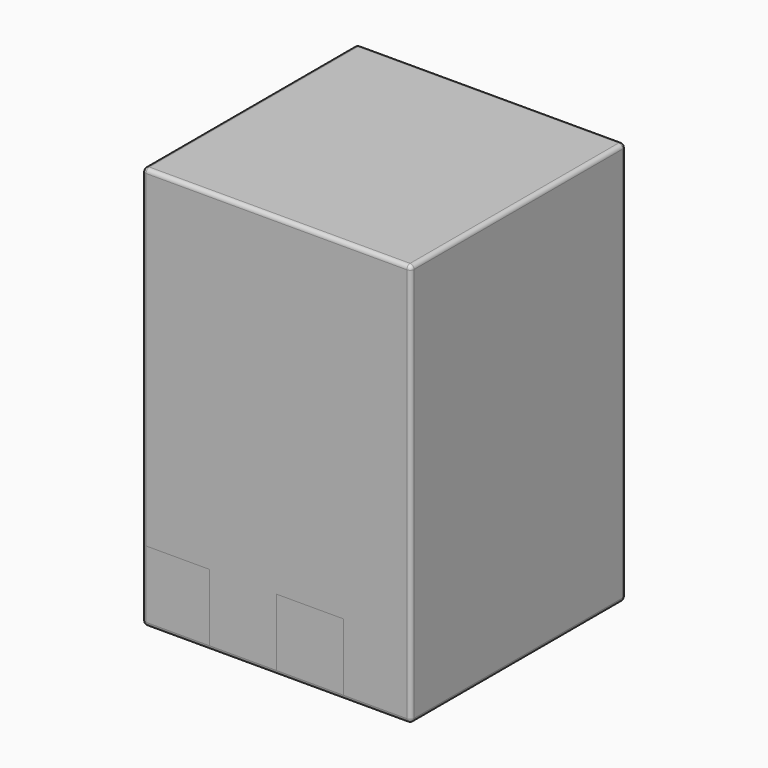
from build123d import *

# Parameters (mm, degrees)
F0_W        = 101.6
F0_H        = 101.6
F1_DEPTH    = 152.4
F2_R        = 1.524
F3_W        = 23.876
F3_H        = 25.4
F3_W_2      = 25.4
F4_DEPTH    = 25.4
F4_FACE_W   = 25.4
F4_FACE_H   = 25.4
F4_FACE_W_2 = 23.876
F5_DEPTH    = 25.4


with BuildPart() as f1:
    # F0 (on Top) → F1 (new body)
    with BuildSketch(Plane.XY):
        Rectangle(F0_W, F0_H)
    extrude(amount=F1_DEPTH)

    # F2
    f2_edges = [f1.edges().sort_by_distance(p)[0] for p in [
        (-50.8, -50.8, 76.2),
        (50.8, -50.8, 76.2),
        (0, -50.8, 0),
        (0, -50.8, 152.4),
        (50.8, 50.8, 76.2),
        (-50.8, 50.8, 76.2),
        (0, 50.8, 0),
        (0, 50.8, 152.4),
        (50.8, 0, 152.4),
        (-50.8, 0, 152.4),
        (50.8, 0, 0),
        (-50.8, 0, 0),
    ]]
    fillet(f2_edges, radius=F2_R)

    # F3 (on face) → F4 (cut)
    with BuildSketch(Plane.XZ.offset(50.8)):
        with Locations((-37.338, 14.224)):
            Rectangle(F3_W, F3_H)
        with Locations((12.7, 14.224)):
            Rectangle(F3_W_2, F3_H)
    extrude(amount=-F4_DEPTH, mode=Mode.SUBTRACT)


with BuildPart() as f5:
    # F4_face (on face) → F5 (new body)
    with BuildSketch(Plane(origin=(12.7, -25.4, 14.224), x_dir=(1, 0, 0), z_dir=(0, -1, 0))):
        Rectangle(F4_FACE_W, F4_FACE_H)
        with Locations((-50.038, 0)):
            Rectangle(F4_FACE_W_2, F4_FACE_H)
    extrude(amount=F5_DEPTH)


solid = Compound([f1.part, f5.part])
